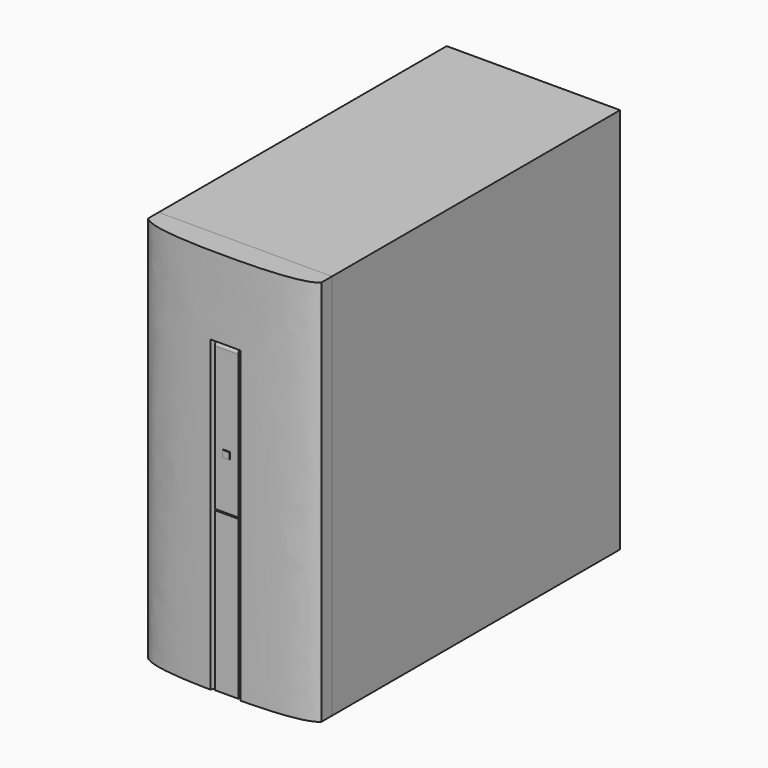
from build123d import *

# Parameters (mm, degrees)
F0_W      = 165.1
F0_H      = 342.9
F1_DEPTH  = 368.3
F2_W      = 165.1
F2_H      = 12.7
F3_DEPTH  = 368.3
F4_W      = 22.225
F4_H      = 15.875
F5_DEPTH  = 293.6875
F6_W      = 22.225
F6_H      = 22.225
F7_DEPTH  = 293.6875
F8_R      = 5.08
F9_W      = 22.225
F9_H      = 1.190625
F10_DEPTH = 3.175
F11_W     = 6.35
F11_H     = 6.35
F12_DEPTH = 0.79375


with BuildPart() as f1:
    # F0 (on Top) → F1 (new body)
    with BuildSketch(Plane.XY):
        Rectangle(F0_W, F0_H)
    extrude(amount=F1_DEPTH)


with BuildPart() as f3:
    # F2 (on Top) → F3 (new body, through all)
    with BuildSketch(Plane.XY):
        with Locations((0, -177.8)):
            Rectangle(F2_W, F2_H)
        with BuildLine():
            Line((82.55, -184.15), (-82.55, -184.15))
            add(Edge.make_bspline(
                [(-82.55, -184.15), (-72.906107, -193.453029), (0, -197.071971), (72.906107, -193.453029), (82.55, -184.15)],
                knots=[0, 0, 0, 0, 83.294599, 166.589197, 166.589197, 166.589197, 166.589197], degree=3))
        make_face()
    extrude(amount=F3_DEPTH)

    # F4 (on face) → F5 (cut)
    with BuildSketch(Plane(origin=(0, 0, 0), x_dir=(1, 0, 0), z_dir=(0, 0, -1))):
        with Locations((0, 179.3875)):
            Rectangle(F4_W, F4_H)
        Polygon((-14.330589, 195.2625), (-11.1125, 187.325), (11.1125, 187.325), (14.330589, 195.2625), align=None)
    extrude(amount=-F5_DEPTH, mode=Mode.SUBTRACT)


with BuildPart() as f7:
    # F6 (on face) → F7 (new body, through all)
    with BuildSketch(Plane(origin=(0, 0, 0), x_dir=(1, 0, 0), z_dir=(0, 0, -1))):
        with Locations((0, 182.5625)):
            Rectangle(F6_W, F6_H)
    extrude(amount=-F7_DEPTH)

    # F8
    f8_edges = [f7.edges().sort_by_distance(p)[0] for p in [
        (0, -193.675, 293.6875),
    ]]
    fillet(f8_edges, radius=F8_R)

    # F9 (on face) → F10 (cut)
    with BuildSketch(Plane.XZ.offset(193.675)):
        with Locations((0, 151.407812)):
            Rectangle(F9_W, F9_H)
    extrude(amount=-F10_DEPTH, mode=Mode.SUBTRACT)

    # F11 (on face) → F12 (join)
    with BuildSketch(Plane.XZ.offset(193.675)):
        with Locations((0, 201.215625)):
            Rectangle(F11_W, F11_H)
    extrude(amount=F12_DEPTH)


solid = Compound([f1.part, f3.part, f7.part])
